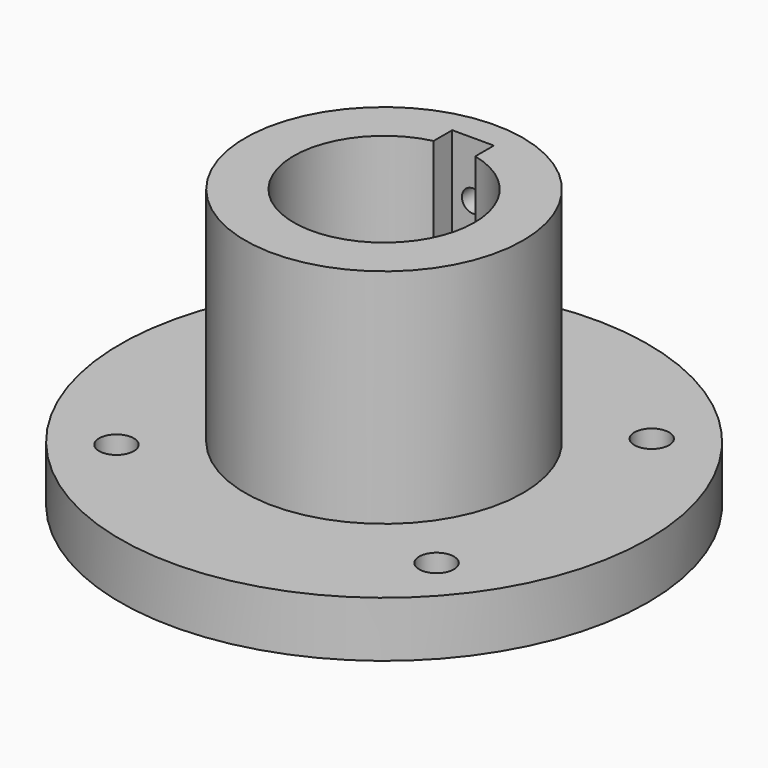
from build123d import *

# Parameters (mm, degrees)
F0_R     = 31.75
F1_DEPTH = 50.8
F0_R_2   = 60.325
F2_DEPTH = 12.7
F4_D     = 5.1054
F4_DEPTH = 60.326
F5_R     = 34.925
F6_DEPTH = 3.175
F7_D     = 7.9375


with BuildPart() as f1:
    # F0 (on Top) → F1 (new body)
    with BuildSketch(Plane.XY):
        Circle(F0_R)
        with BuildLine():
            ThreePointArc((4.7625, 20.0869892361), (16.1939012972, 12.80336298), (20.64385, 0))
            ThreePointArc((20.64385, 0), (-12.80336298, -16.1939012972), (-4.7625, 20.0869892361))
            Line((-4.7625, 20.0869892361), (-4.7625, 25.40635))
            Line((-4.7625, 25.40635), (4.7625, 25.40635))
            Line((4.7625, 25.40635), (4.7625, 20.0869892361))
        make_face(mode=Mode.SUBTRACT)
    extrude(amount=F1_DEPTH)

    # F0 (on Top) → F2 (join)
    with BuildSketch(Plane.XY):
        Circle(F0_R_2)
        Circle(F0_R, mode=Mode.SUBTRACT)
        Circle(F0_R)
        with BuildLine():
            ThreePointArc((4.7625, 20.0869892361), (16.1939012972, 12.80336298), (20.64385, 0))
            ThreePointArc((20.64385, 0), (-12.80336298, -16.1939012972), (-4.7625, 20.0869892361))
            Line((-4.7625, 20.0869892361), (-4.7625, 25.40635))
            Line((-4.7625, 25.40635), (4.7625, 25.40635))
            Line((4.7625, 25.40635), (4.7625, 20.0869892361))
        make_face(mode=Mode.SUBTRACT)
    extrude(amount=-F2_DEPTH)

    # F4 (through all, one way)
    with BuildSketch(Plane.XZ):
        with Locations((0, 38.1), (0, 19.05)):
            Circle(F4_D / 2)
    extrude(amount=-F4_DEPTH, mode=Mode.SUBTRACT)

    # F5 (on face) → F6 (cut)
    with BuildSketch(Plane(origin=(0, 0, -12.7), x_dir=(1, 0, 0), z_dir=(0, 0, -1))):
        Circle(F5_R)
        with BuildLine():
            ThreePointArc((-4.7625, -20.0869892361), (0, 20.64385), (4.7625, -20.0869892361))
            Line((4.7625, -20.0869892361), (4.7625, -25.40635))
            Line((4.7625, -25.40635), (-4.7625, -25.40635))
            Line((-4.7625, -25.40635), (-4.7625, -20.0869892361))
        make_face(mode=Mode.SUBTRACT)
    extrude(amount=-F6_DEPTH, mode=Mode.SUBTRACT)

    # F7 (through all)
    with Locations(Plane.XY):
        with Locations((-36.576, -30.734), (36.576, -30.734), (36.576, 30.734), (-36.576, 30.734)):
            Hole(F7_D / 2)


solid = f1.part
